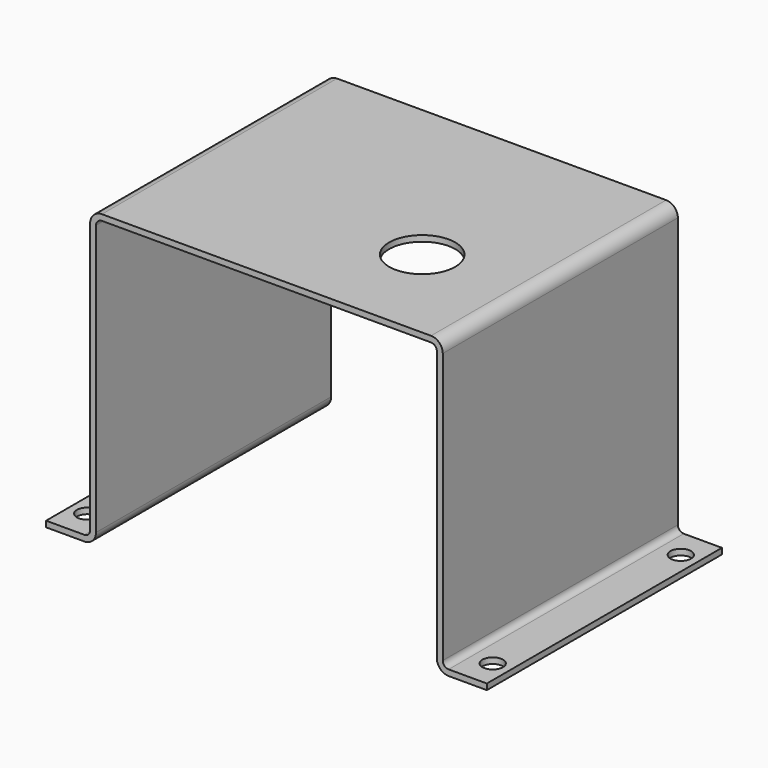
from build123d import *

# Parameters (mm, degrees)
F1_DEPTH = 100
F2_R     = 11.25
F3_DEPTH = 25
F4_R     = 3.5
F5_DEPTH = 25


with BuildPart() as f1:
    # F0 (on Front) → F1 (new body)
    with BuildSketch(Plane.XZ):
        with BuildLine():
            Line((-93.888451, 0), (-106.888451, 0))
            Line((-106.888451, 0), (-106.888451, -2))
            Line((-106.888451, -2), (-93.888451, -2))
            ThreePointArc((-93.888451, -2), (-91.060024, -0.828427), (-89.888451, 2))
            Line((-89.888451, 2), (-89.888451, 94))
            ThreePointArc((-89.888451, 94), (-89.302665, 95.414214), (-87.888451, 96))
            Line((-87.888451, 96), (24.111549, 96))
            ThreePointArc((24.111549, 96), (25.525762, 95.414214), (26.111549, 94))
            Line((26.111549, 94), (26.111549, 2))
            ThreePointArc((26.111549, 2), (27.283121, -0.828427), (30.111549, -2))
            Line((30.111549, -2), (43.111549, -2))
            Line((43.111549, -2), (43.111549, 0))
            Line((43.111549, 0), (30.111549, 0))
            ThreePointArc((30.111549, 0), (28.697335, 0.585786), (28.111549, 2))
            Line((28.111549, 2), (28.111549, 94))
            ThreePointArc((28.111549, 94), (26.939976, 96.828427), (24.111549, 98))
            Line((24.111549, 98), (-87.888451, 98))
            ThreePointArc((-87.888451, 98), (-90.716879, 96.828427), (-91.888451, 94))
            Line((-91.888451, 94), (-91.888451, 2))
            ThreePointArc((-91.888451, 2), (-92.474238, 0.585786), (-93.888451, 0))
        make_face()
    extrude(amount=F1_DEPTH)

    # F2 (on face) → F3 (cut)
    with BuildSketch(Plane.XY.offset(98)):
        with Locations((-6.888451, -65)):
            Circle(F2_R)
    extrude(amount=-F3_DEPTH, mode=Mode.SUBTRACT)

    # F4 (on face) → F5 (cut)
    with BuildSketch(Plane(origin=(0, 0, -2), x_dir=(1, 0, 0), z_dir=(0, 0, -1))):
        with Locations((37.111549, 90)):
            Circle(F4_R)
        with Locations((37.111549, 10)):
            Circle(F4_R)
        with Locations((-100.888451, 10)):
            Circle(F4_R)
        with Locations((-100.888451, 90)):
            Circle(F4_R)
    extrude(amount=-F5_DEPTH, mode=Mode.SUBTRACT)


solid = f1.part
